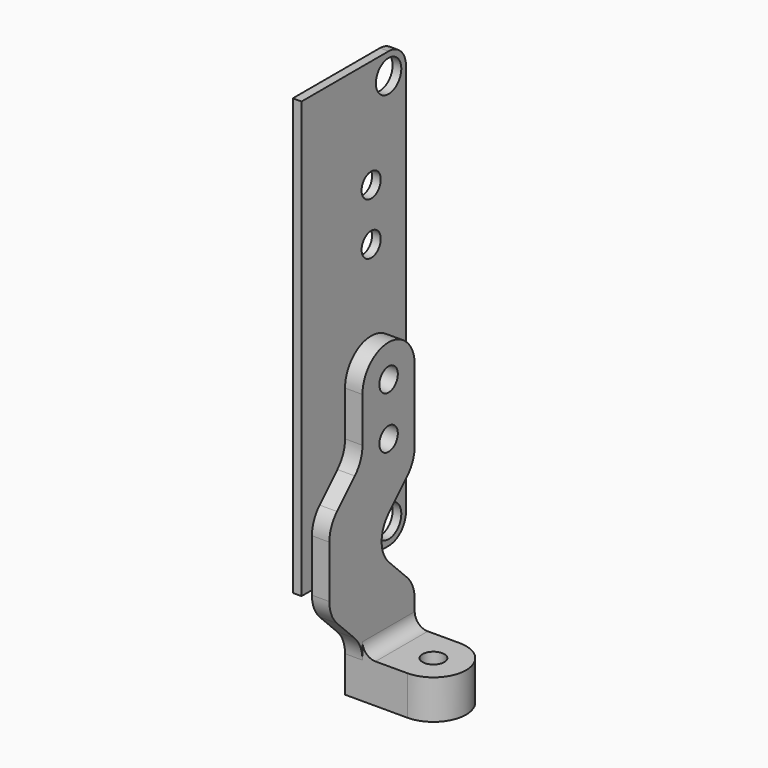
from build123d import *

# Parameters (mm, degrees)
SKETCH_R     = 2.75
SKETCH_R_2   = 3.65
PAD_DEPTH    = 2
SKETCH001_R  = 2.65
PAD001_DEPTH = 4
SKETCH002_R  = 2.5
PAD002_DEPTH = 9
POCKET_DEPTH = 3
FILLET_R     = 3


with BuildPart() as z_plate:
    # Sketch → Pad (new body)
    with BuildSketch(Plane.YZ):
        with BuildLine():
            Line((-20, 25), (5, 25))
            ThreePointArc((5, 25), (8.535534, 26.464466), (10, 30))
            Line((10, 30), (10, 120))
            ThreePointArc((10, 120), (8.535534, 123.535534), (5, 125))
            Line((5, 125), (-20, 125))
            Line((-20, 125), (-20, 25))
        make_face()
        with Locations((0, 100)):
            Circle(SKETCH_R, mode=Mode.SUBTRACT)
        with Locations((0, 88)):
            Circle(SKETCH_R, mode=Mode.SUBTRACT)
        with Locations((0, 62)):
            Circle(SKETCH_R, mode=Mode.SUBTRACT)
        with Locations((0, 50)):
            Circle(SKETCH_R, mode=Mode.SUBTRACT)
        with Locations((5, 120)):
            Circle(SKETCH_R_2, mode=Mode.SUBTRACT)
        with Locations((5, 30)):
            Circle(SKETCH_R_2, mode=Mode.SUBTRACT)
    extrude(amount=-PAD_DEPTH)


with BuildPart() as z_endstop_screw_mount:
    # Sketch001 → Pad001 (new body)
    with BuildSketch(Plane.YZ):
        with BuildLine():
            Line((-7.5, 62), (-7.5, 51.7193))
            ThreePointArc((-9.696699, 46.415999), (-8.070904, 48.849174), (-7.5, 51.7193))
            Line((-9.696699, 46.415999), (-14.803301, 41.309398))
            ThreePointArc((-14.803301, 41.309398), (-16.429096, 38.876222), (-17, 36.006097))
            Line((-17, 36.006097), (-17, 23.993903))
            ThreePointArc((-17, 23.993903), (-16.429096, 21.123778), (-14.803301, 18.690602))
            Line((-14.803301, 18.690602), (-9.696699, 13.584001))
            ThreePointArc((-7.5, 8.2807), (-8.070904, 11.150826), (-9.696699, 13.584001))
            Line((-7.5, 8.2807), (-7.5, 0))
            Line((-7.5, 0), (7.5, 0))
            Line((7.5, 0), (7.5, 14.493903))
            ThreePointArc((7.5, 14.493903), (6.929096, 17.364029), (5.303301, 19.797204))
            Line((5.303301, 19.797204), (0.050253, 25.050253))
            ThreePointArc((0.050253, 34.949747), (-2, 30), (0.050253, 25.050253))
            Line((0.050253, 34.949747), (5.303301, 40.202796))
            ThreePointArc((5.303301, 40.202796), (6.929096, 42.635971), (7.5, 45.506097))
            Line((7.5, 45.506097), (7.5, 62))
            ThreePointArc((7.5, 62), (0, 69.5), (-7.5, 62))
        make_face()
        with Locations((0, 62)):
            Circle(SKETCH001_R, mode=Mode.SUBTRACT)
        with Locations((0, 50)):
            Circle(SKETCH001_R, mode=Mode.SUBTRACT)
    extrude(amount=PAD001_DEPTH)

    # Sketch002 → Pad002 (new body)
    with BuildSketch(Plane.YX):
        with BuildLine():
            Line((-7.5, 14.3), (-7.5, 4))
            Line((-7.5, 4), (7.5, 4))
            Line((7.5, 4), (7.5, 14.3))
            ThreePointArc((7.5, 14.3), (0, 21.8), (-7.5, 14.3))
        make_face()
        with Locations((0, 14.3)):
            Circle(SKETCH002_R, mode=Mode.SUBTRACT)
    extrude(amount=-PAD002_DEPTH)

    # Sketch003 → Pocket (cut)
    with BuildSketch(Plane.YX):
        Polygon((-4, 11.990599), (-4, 16.609401), (0, 18.918802), (4, 16.609401), (4, 11.990599), (0, 9.681198), align=None)
    extrude(amount=-POCKET_DEPTH, mode=Mode.SUBTRACT)

    # Fillet
    fillet_edges = [z_endstop_screw_mount.edges().sort_by_distance(p)[0] for p in [
        (4, 0, 9),
    ]]
    fillet(fillet_edges, radius=FILLET_R)


solid = Compound([z_plate.part, z_endstop_screw_mount.part])
